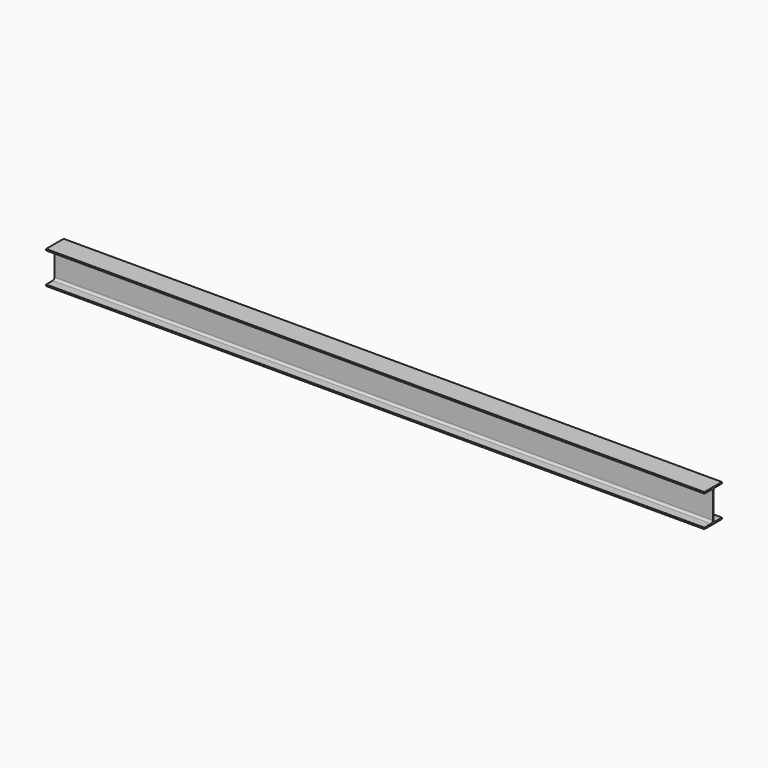
from build123d import *

# Parameters (mm, degrees)
F1_DEPTH = 6096


with BuildPart() as f1:
    # F0 (on Right) → F1 (new body)
    with BuildSketch(Plane.YZ):
        with BuildLine():
            Line((-3.74904, 118.52402), (-3.74904, 0))
            Line((-3.74904, 0), (-3.74904, -118.52402))
            ThreePointArc((-3.74904, -118.52402), (-9.574159, -132.587101), (-23.63724, -138.41222))
            Line((-23.63724, -138.41222), (-101.4984, -138.41222))
            Line((-101.4984, -138.41222), (-101.4984, -151.511))
            Line((-101.4984, -151.511), (0, -151.511))
            Line((0, -151.511), (101.4984, -151.511))
            Line((101.4984, -151.511), (101.4984, -138.41222))
            Line((101.4984, -138.41222), (23.63724, -138.41222))
            ThreePointArc((23.63724, -138.41222), (9.574159, -132.587101), (3.74904, -118.52402))
            Line((3.74904, -118.52402), (3.74904, 0))
            Line((3.74904, 0), (3.74904, 118.52402))
            ThreePointArc((3.74904, 118.52402), (9.574159, 132.587101), (23.63724, 138.41222))
            Line((23.63724, 138.41222), (101.4984, 138.41222))
            Line((101.4984, 138.41222), (101.4984, 151.511))
            Line((101.4984, 151.511), (0, 151.511))
            Line((0, 151.511), (-101.4984, 151.511))
            Line((-101.4984, 151.511), (-101.4984, 138.41222))
            Line((-101.4984, 138.41222), (-23.63724, 138.41222))
            ThreePointArc((-23.63724, 138.41222), (-9.574159, 132.587101), (-3.74904, 118.52402))
        make_face()
    extrude(amount=F1_DEPTH)


solid = f1.part
